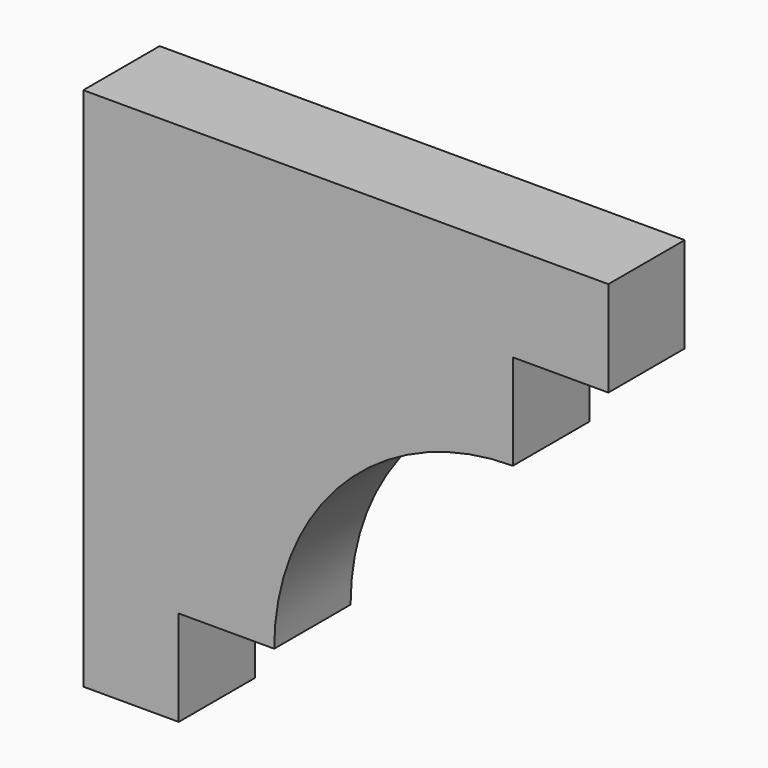
from build123d import *

# Parameters (mm, degrees)
F1_DEPTH = 25.4


with BuildPart() as f1:
    # F0 (on Front) → F1 (new body)
    with BuildSketch(Plane.XZ):
        with BuildLine():
            Line((139.7, 0), (0, 0))
            Line((0, 0), (0, -139.7))
            Line((0, -139.7), (25.4, -139.7))
            Line((25.4, -139.7), (25.4, -114.3))
            Line((25.4, -114.3), (50.8, -114.3))
            ThreePointArc((50.8, -114.3), (69.398719, -69.398719), (114.3, -50.8))
            Line((114.3, -50.8), (114.3, -25.4))
            Line((114.3, -25.4), (139.7, -25.4))
            Line((139.7, -25.4), (139.7, 0))
        make_face()
    extrude(amount=F1_DEPTH)


solid = f1.part
